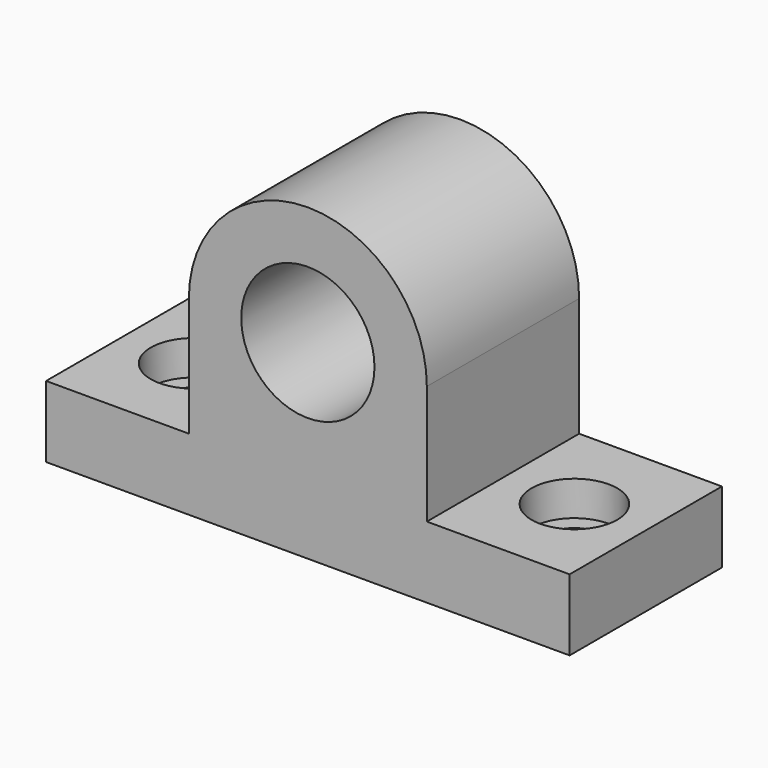
from build123d import *

# Parameters (mm, degrees)
F0_R     = 14
F1_DEPTH = 20
F2_R     = 5.5
F3_DEPTH = 15
F2_R_2   = 9
F4_DEPTH = 7.3
F5_R     = 5.5
F6_DEPTH = 15
F5_R_2   = 9
F7_DEPTH = 7.3


with BuildPart() as f1:
    # F0 (on Front) → F1 (new body, symmetric)
    with BuildSketch(Plane.XZ):
        with BuildLine():
            Line((-25, -19), (-55, -19))
            Line((-55, -19), (-55, -34))
            Line((-55, -34), (55, -34))
            Line((55, -34), (55, -19))
            Line((55, -19), (25, -19))
            Line((25, -19), (25, 6))
            ThreePointArc((25, 6), (0.090153, 31.000164), (-25, 6.18096))
            Line((-25, 6.18096), (-25, -19))
        make_face()
        with Locations((-0.000327, 6)):
            Circle(F0_R, mode=Mode.SUBTRACT)
    extrude(amount=F1_DEPTH, both=True)

    # F2 (on face) → F3 (cut)
    with BuildSketch(Plane.XY.offset(-19)):
        with Locations((-40, 0)):
            Circle(F2_R)
    extrude(amount=-F3_DEPTH, mode=Mode.SUBTRACT)

    # F2 (on face) → F4 (cut)
    with BuildSketch(Plane.XY.offset(-19)):
        with Locations((-40, 0)):
            Circle(F2_R_2)
        with Locations((-40, 0)):
            Circle(F2_R, mode=Mode.SUBTRACT)
    extrude(amount=-F4_DEPTH, mode=Mode.SUBTRACT)

    # F5 (on face) → F6 (cut)
    with BuildSketch(Plane.XY.offset(-19)):
        with Locations((40, 0)):
            Circle(F5_R)
    extrude(amount=-F6_DEPTH, mode=Mode.SUBTRACT)

    # F5 (on face) → F7 (cut)
    with BuildSketch(Plane.XY.offset(-19)):
        with Locations((40, 0)):
            Circle(F5_R_2)
        with Locations((40, 0)):
            Circle(F5_R, mode=Mode.SUBTRACT)
    extrude(amount=-F7_DEPTH, mode=Mode.SUBTRACT)


solid = f1.part
